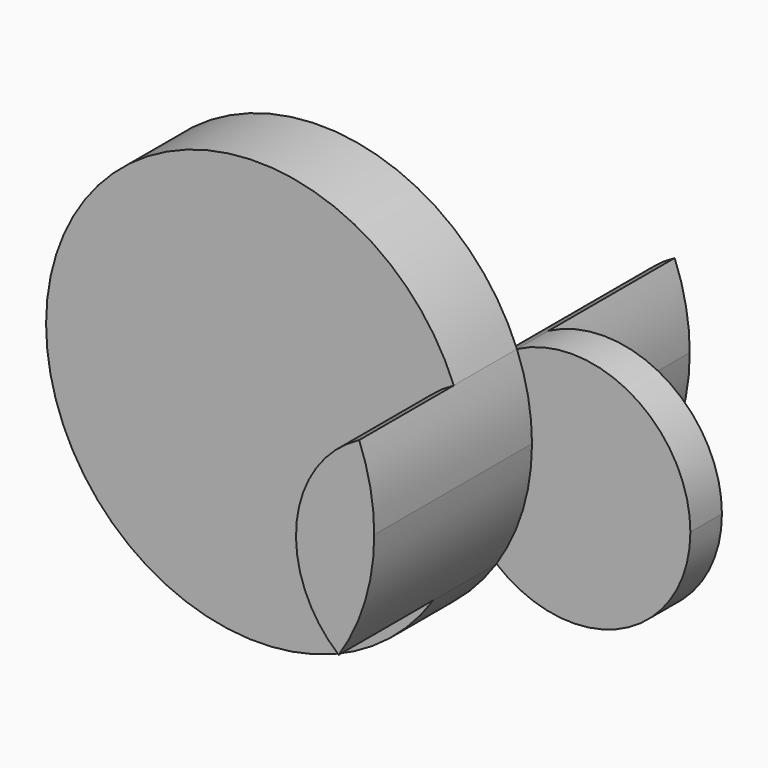
from build123d import *

# Parameters (mm, degrees)
F1_DEPTH      = 25.4
F2_DEPTH      = 12.7
F3_DEPTH      = 63.5
F3_DEPTH_BACK = 63.5


with BuildPart() as f1:
    # F0 (on Front) → F1 (new body)
    with BuildSketch(Plane.XZ):
        with BuildLine():
            ThreePointArc((-24.342829, -29.309327), (-37.893381, 3.962534), (-17.752726, 33.711285))
            ThreePointArc((-17.752726, 33.711285), (-148.685862, 15.54817), (-24.342829, -29.309327))
        make_face()
    extrude(amount=F1_DEPTH)


with BuildPart() as f2:
    # F0 (on Front) → F2 (new body)
    with BuildSketch(Plane.XZ):
        with BuildLine():
            ThreePointArc((-24.342829, -29.309327), (16.188703, -34.489649), (38.1, 0))
            ThreePointArc((38.1, 0), (19.687955, 32.618928), (-17.752726, 33.711285))
            ThreePointArc((-17.752726, 33.711285), (-14.123865, 21.320709), (-12.899566, 8.467846))
            ThreePointArc((-12.899566, 8.467846), (-15.823159, -11.268308), (-24.342829, -29.309327))
        make_face()
    extrude(amount=-F2_DEPTH)


with BuildPart() as f3:
    # F0 (on Front) → F3 (new body, two sides)
    with BuildSketch(Plane.XZ) as f3_sk:
        with BuildLine():
            ThreePointArc((-12.899566, 8.467846), (-14.123865, 21.320709), (-17.752726, 33.711285))
            ThreePointArc((-17.752726, 33.711285), (-37.893381, 3.962534), (-24.342829, -29.309327))
            ThreePointArc((-24.342829, -29.309327), (-15.823159, -11.268308), (-12.899566, 8.467846))
        make_face()
    extrude(amount=F3_DEPTH)
    extrude(f3_sk.sketch, amount=-F3_DEPTH_BACK)


solid = Compound([f1.part, f2.part, f3.part])
